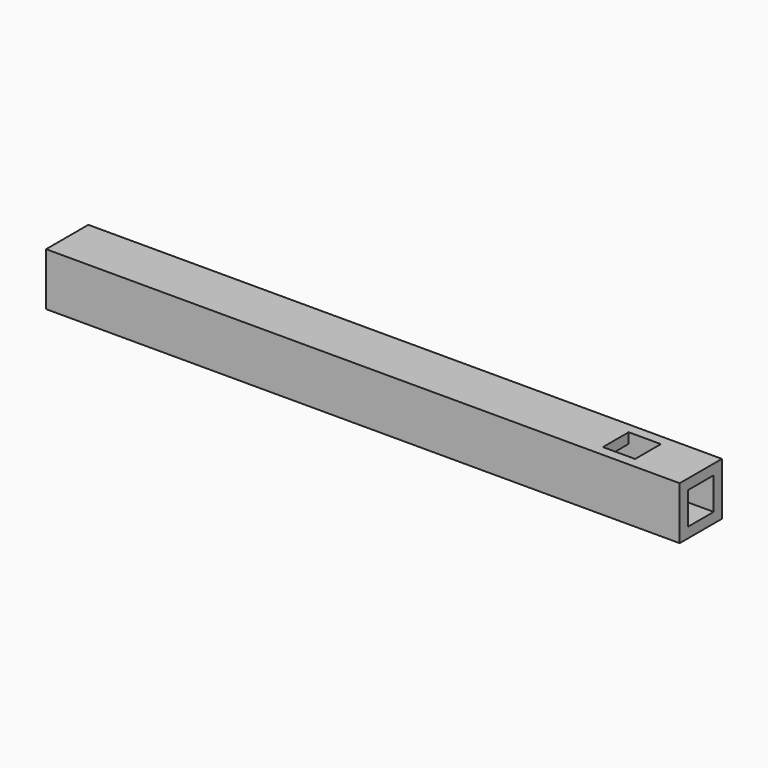
from build123d import *

# Parameters (mm, degrees)
F0_W      = 25.4
F0_H      = 25.4
F1_DEPTH  = 152.4
F1_FACE_W = 25.4
F1_FACE_H = 25.4
F2_DEPTH  = 152.4
F3_W      = 15.494
F3_H      = 15.494
F4_DEPTH  = 304.801
F5_W      = 15.494
F5_H      = 15.494
F6_DEPTH  = 19.05
F7_W      = 15.494
F7_H      = 15.494
F8_DEPTH  = 17.78
F9_DEPTH  = 15.24
F10_DEPTH = 15.24
F11_DEPTH = 15.24
F13_DEPTH = 15.24


with BuildPart() as f1:
    # F0 (on Right) → F1 (new body)
    with BuildSketch(Plane.YZ):
        with Locations((-3.156137, 12.7)):
            Rectangle(F0_W, F0_H)
    extrude(amount=-F1_DEPTH)

    # F1_face (on face) → F2 (join)
    with BuildSketch(Plane(origin=(0, -3.156137, 12.7), x_dir=(0, 1, 0), z_dir=(1, 0, 0))):
        Rectangle(F1_FACE_W, F1_FACE_H)
    extrude(amount=F2_DEPTH)

    # F3 (on face) → F4 (cut, through all)
    with BuildSketch(Plane.YZ.offset(152.4)):
        with Locations((-3.156137, 12.7)):
            Rectangle(F3_W, F3_H)
    extrude(amount=-F4_DEPTH, mode=Mode.SUBTRACT)

    # F5 (on face) → F6 (cut)
    with BuildSketch(Plane(origin=(0, 0, 0), x_dir=(1, 0, 0), z_dir=(0, 0, -1))):
        with Locations((-99.187, 3.156137)):
            Rectangle(F5_W, F5_H)
    extrude(amount=-F6_DEPTH, mode=Mode.SUBTRACT)

    # F7 (on face) → F8 (cut)
    with BuildSketch(Plane(origin=(0, 0, 0), x_dir=(1, 0, 0), z_dir=(0, 0, -1))):
        with Locations((-58.293, 3.156137)):
            Rectangle(F7_W, F7_H)
    extrude(amount=-F8_DEPTH, mode=Mode.SUBTRACT)

    # F7 (on face) → F9 (cut)
    with BuildSketch(Plane(origin=(0, 0, 0), x_dir=(1, 0, 0), z_dir=(0, 0, -1))):
        with Locations((-17.399, 3.156137)):
            Rectangle(F7_W, F7_H)
    extrude(amount=-F9_DEPTH, mode=Mode.SUBTRACT)

    # F7 (on face) → F10 (cut)
    with BuildSketch(Plane(origin=(0, 0, 0), x_dir=(1, 0, 0), z_dir=(0, 0, -1))):
        with Locations((23.495, 3.156137)):
            Rectangle(F7_W, F7_H)
    extrude(amount=-F10_DEPTH, mode=Mode.SUBTRACT)

    # F7 (on face) → F11 (cut)
    with BuildSketch(Plane(origin=(0, 0, 0), x_dir=(1, 0, 0), z_dir=(0, 0, -1))):
        with Locations((64.389, 3.156137)):
            Rectangle(F7_W, F7_H)
    extrude(amount=-F11_DEPTH, mode=Mode.SUBTRACT)

    # F12 (on face) → F13 (cut)
    with BuildSketch(Plane.XY.offset(25.4)):
        Polygon((127, -10.903137), (127, -3.156137), (127, 4.590863), (111.506, 4.590863), (111.506, -10.903137), align=None)
    extrude(amount=-F13_DEPTH, mode=Mode.SUBTRACT)


solid = f1.part
